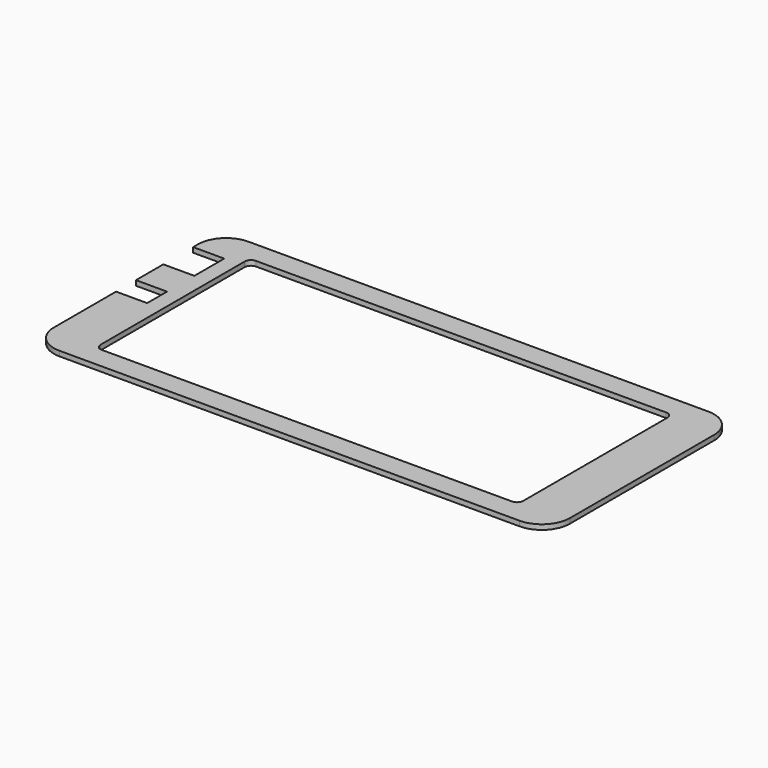
from build123d import *

# Parameters (mm, degrees)
PAD_DEPTH     = 2.032
SKETCH002_W   = 12.7
SKETCH002_H   = 10.16
SKETCH002_H_2 = 15.24
POCKET_DEPTH  = 5.0038


with BuildPart() as part:
    # Sketch → Pad (new body)
    with BuildSketch(Plane.XY):
        with BuildLine():
            ThreePointArc((-93.98, 48.26), (-102.062231, 44.912231), (-105.41, 36.83))
            Line((-105.41, -36.83), (-105.41, 36.83))
            ThreePointArc((-105.41, -36.83), (-102.062231, -44.912231), (-93.98, -48.26))
            Line((93.98, -48.26), (-93.98, -48.26))
            ThreePointArc((93.98, -48.26), (102.062231, -44.912231), (105.41, -36.83))
            Line((105.41, 36.83), (105.41, -36.83))
            ThreePointArc((105.41, 36.83), (102.062231, 44.912231), (93.98, 48.26))
            Line((-93.98, 48.26), (93.98, 48.26))
        make_face()
    extrude(amount=PAD_DEPTH)

    # Sketch002 (on Face9 of Pad) → Pocket (cut)
    with BuildSketch(Plane(origin=(0, 0, 0), x_dir=(1, 0, 0), z_dir=(0, 0, -1))):
        with BuildLine():
            ThreePointArc((-83.82, 39.37), (-85.616051, 38.626051), (-86.36, 36.83))
            Line((-86.36, -36.83), (-86.36, 36.83))
            ThreePointArc((-86.36, -36.83), (-85.616051, -38.626051), (-83.82, -39.37))
            Line((83.82, -39.37), (-83.82, -39.37))
            ThreePointArc((83.82, -39.37), (85.616051, -38.626051), (86.36, -36.83))
            Line((86.36, 36.83), (86.36, -36.83))
            ThreePointArc((86.36, 36.83), (85.616051, 38.626051), (83.82, 39.37))
            Line((-83.82, 39.37), (83.82, 39.37))
        make_face()
        with Locations((-99.06, 0)):
            Rectangle(SKETCH002_W, SKETCH002_H)
        with Locations((-99.06, -26.67)):
            Rectangle(SKETCH002_W, SKETCH002_H_2)
    extrude(amount=-POCKET_DEPTH, mode=Mode.SUBTRACT)


solid = part.part
